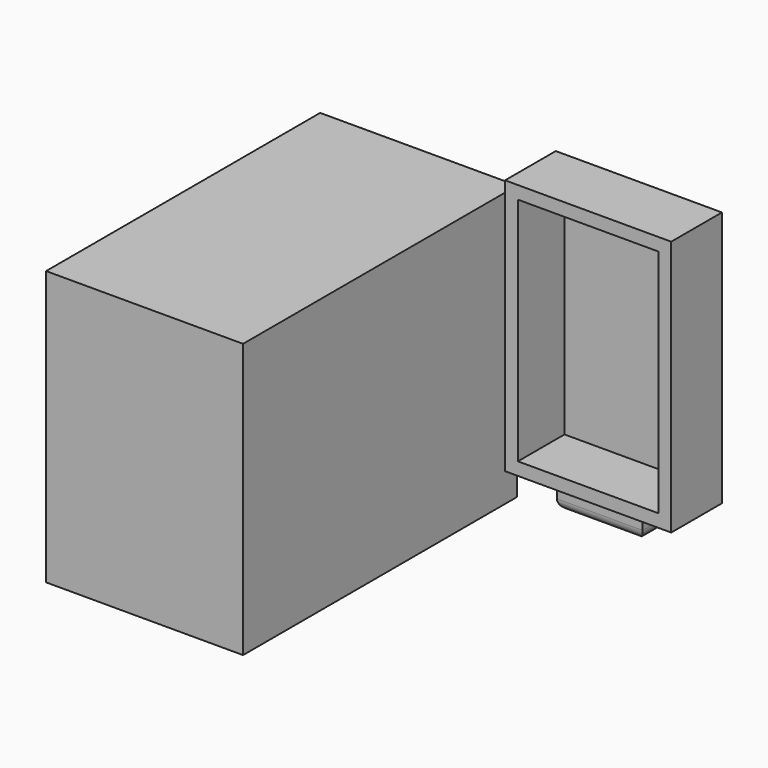
from build123d import *

# Parameters (mm, degrees)
F0_W      = 57.5
F0_H      = 80
F1_DEPTH  = 100
F2_W      = 50
F2_H      = 20.3125
F3_DEPTH  = 76.25
F4_W      = 48.5
F4_H      = 18.5
F5_DEPTH  = 74.75
F6_W      = 12.5
F6_H      = 5
F7_DEPTH  = 8
F8_R      = 3
F9_W      = 19.114142
F9_H      = 5
F10_DEPTH = 7
F11_W     = 41
F11_H     = 67.25
F12_DEPTH = 17


with BuildPart() as f1:
    # F0 (on Front) → F1 (new body)
    with BuildSketch(Plane.XZ):
        with Locations((0.186592, 15.818478)):
            Rectangle(F0_W, F0_H)
    extrude(amount=F1_DEPTH)

    # F2 (on face) → F3 (cut)
    with BuildSketch(Plane(origin=(0, 0, -24.181522), x_dir=(1, 0, 0), z_dir=(0, 0, -1))):
        with Locations((0.186592, 13.90625)):
            Rectangle(F2_W, F2_H)
        with Locations((0.186592, 37.65625)):
            Rectangle(F2_W, F2_H)
        with Locations((0.186592, 61.40625)):
            Rectangle(F2_W, F2_H)
        with Locations((0.186592, 85.15625)):
            Rectangle(F2_W, F2_H)
    extrude(amount=-F3_DEPTH, mode=Mode.SUBTRACT)


with BuildPart() as f5:
    # F4 (on Top) → F5 (new body)
    with BuildSketch(Plane.XY):
        with Locations((72.117852, -18.810411)):
            Rectangle(F4_W, F4_H)
    extrude(amount=F5_DEPTH)

    # F6 (on face) → F7 (join)
    with BuildSketch(Plane(origin=(0, 0, 0), x_dir=(1, 0, 0), z_dir=(0, 0, -1))):
        with Locations((78.367852, 21.310411)):
            Rectangle(F6_W, F6_H)
        with Locations((65.867852, 21.310411)):
            Rectangle(F6_W, F6_H)
        with Locations((78.367852, 16.310411)):
            Rectangle(F6_W, F6_H)
        with Locations((65.867852, 16.310411)):
            Rectangle(F6_W, F6_H)
    extrude(amount=F7_DEPTH)

    # F8
    f8_edges = [f5.edges().sort_by_distance(p)[0] for p in [
        (72.117852, -23.810411, -8),
        (59.617852, -18.810411, -8),
        (84.617852, -18.810411, -8),
    ]]
    fillet(f8_edges, radius=F8_R)

    # F9 (on face) → F10 (cut)
    with BuildSketch(Plane(origin=(0, -13.810411, 0), x_dir=(-1, 0, 0), z_dir=(0, 1, 0))):
        with Locations((-72.060781, -2.5)):
            Rectangle(F9_W, F9_H)
    extrude(amount=-F10_DEPTH, mode=Mode.SUBTRACT)

    # F11 (on face) → F12 (cut)
    with BuildSketch(Plane.XZ.offset(28.060411)):
        with Locations((72.117852, 37.375)):
            Rectangle(F11_W, F11_H)
    extrude(amount=-F12_DEPTH, mode=Mode.SUBTRACT)


solid = Compound([f1.part, f5.part])
